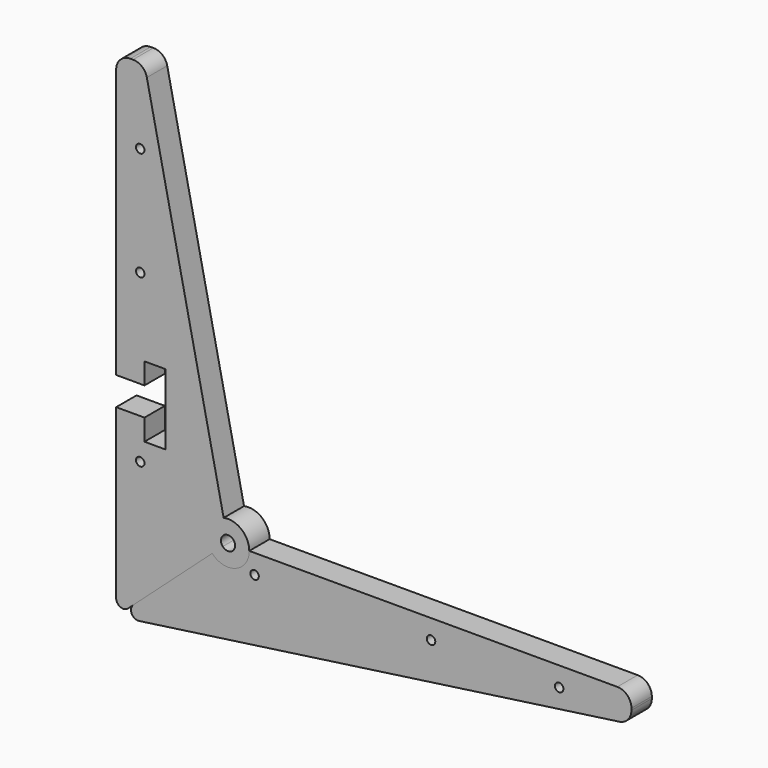
from build123d import *

# Parameters (mm, degrees)
F0_R     = 3
F1_DEPTH = 18
F2_DEPTH = 18
F3_DEPTH = 18
F4_DEPTH = 18
F5_R     = 5
F5_2_R   = 5
F5_3_R   = 5
F5_4_R   = 5
F6_R     = 10
F6_2_R   = 10
F6_3_R   = 10
F6_4_R   = 10


with BuildPart() as f1:
    # F0 (on Front) → F1 (new body)
    with BuildSketch(Plane.XZ):
        with BuildLine():
            Line((-60.7194070949, 66.6586026049), (-60.7194070949, -63.3413973951))
            Line((-60.7194070949, -63.3413973951), (7.1693628817, -2.2140743457))
            ThreePointArc((7.1693628817, -2.2140743457), (4.0525372812, 12.4638287862), (15.2095640051, 22.4975816663))
            Line((15.2095640051, 22.4975816663), (-40.7194070949, 286.6586026049))
            Line((-40.7194070949, 286.6586026049), (-60.7194070949, 286.6586026049))
            Line((-60.7194070949, 286.6586026049), (-60.7194070949, 86.6586026049))
            Line((-60.7194070949, 86.6586026049), (-40.7194070949, 86.6586026049))
            Line((-40.7194070949, 86.6586026049), (-40.7194070949, 101.6586026049))
            Line((-40.7194070949, 101.6586026049), (-25.7194070949, 101.6586026049))
            Line((-25.7194070949, 101.6586026049), (-25.7194070949, 51.6586026049))
            Line((-25.7194070949, 51.6586026049), (-40.7194070949, 51.6586026049))
            Line((-40.7194070949, 51.6586026049), (-40.7194070949, 66.6586026049))
            Line((-40.7194070949, 66.6586026049), (-60.7194070949, 66.6586026049))
        make_face()
        with Locations((-43.7194070949, 38.2209867239)):
            Circle(F0_R, mode=Mode.SUBTRACT)
        with Locations((-43.7194070949, 155.9402495623)):
            Circle(F0_R, mode=Mode.SUBTRACT)
        with Locations((-43.7194070949, 232.910797)):
            Circle(F0_R, mode=Mode.SUBTRACT)
    extrude(amount=F1_DEPTH)

    # F5#2
    f5_2_edges = [f1.edges().sort_by_distance(p)[0] for p in [
        (-60.719407, -9, -63.341397),
    ]]
    fillet(f5_2_edges, radius=F5_2_R)

    # F6#4
    f6_4_edges = [f1.edges().sort_by_distance(p)[0] for p in [
        (-60.719407, -9, 286.658603),
        (-40.719407, -9, 286.658603),
    ]]
    fillet(f6_4_edges, radius=F6_4_R)


with BuildPart() as f2:
    # F0 (on Front) → F2 (new body)
    with BuildSketch(Plane.XZ):
        with BuildLine():
            Line((7.1693628817, -2.2140743457), (-60.7194070949, -63.3413973951))
            Line((-60.7194070949, -63.3413973951), (303.3333769453, -12.1771152504))
            Line((303.3333769453, -12.1771152504), (303.3333769453, 7.8228847496))
            Line((303.3333769453, 7.8228847496), (33.3165352639, 7.8228847496))
            ThreePointArc((33.3165352639, 7.8228847496), (23.6920545071, -6.1808216478), (7.1693628817, -2.2140743457))
        make_face()
        with Locations((37.0541214943, -5.8885407634)):
            Circle(F0_R, mode=Mode.SUBTRACT)
        with Locations((161.7336720228, -5.8885407634)):
            Circle(F0_R, mode=Mode.SUBTRACT)
        with Locations((252.2485852242, -5.8885407634)):
            Circle(F0_R, mode=Mode.SUBTRACT)
        with BuildLine():
            Line((14.6008111365, 4.4772317179), (7.1693628817, -2.2140743457))
            ThreePointArc((7.1693628817, -2.2140743457), (23.6920545071, -6.1808216478), (33.3165352639, 7.8228847496))
            Line((33.3165352639, 7.8228847496), (23.3165352639, 7.8228847496))
            ThreePointArc((23.3165352639, 7.8228847496), (20.1083750116, 3.1549826172), (14.6008111365, 4.4772317179))
        make_face()
        with BuildLine():
            ThreePointArc((15.2095640051, 22.4975816663), (4.0525372812, 12.4638287862), (7.1693628817, -2.2140743457))
            Line((7.1693628817, -2.2140743457), (14.6008111365, 4.4772317179))
            ThreePointArc((14.6008111365, 4.4772317179), (13.5618692697, 9.3698660952), (17.2808781776, 12.7144503885))
            Line((17.2808781776, 12.7144503885), (15.2095640051, 22.4975816663))
        make_face()
        with BuildLine():
            ThreePointArc((33.3165352639, 7.8228847496), (27.7609894863, 19.4763084715), (15.2095640051, 22.4975816663))
            Line((15.2095640051, 22.4975816663), (17.2808781776, 12.7144503885))
            ThreePointArc((17.2808781776, 12.7144503885), (21.4646866713, 11.7073593236), (23.3165352639, 7.8228847496))
            Line((23.3165352639, 7.8228847496), (33.3165352639, 7.8228847496))
        make_face()
    extrude(amount=F2_DEPTH)

    # F5
    f5_edges = [f2.edges().sort_by_distance(p)[0] for p in [
        (-60.719407, -9, -63.341397),
    ]]
    fillet(f5_edges, radius=F5_R)

    # F6#2
    f6_2_edges = [f2.edges().sort_by_distance(p)[0] for p in [
        (303.333377, -9, 7.822885),
        (303.333377, -9, -12.177115),
    ]]
    fillet(f6_2_edges, radius=F6_2_R)


with BuildPart() as f3:
    # F0 (on Front) → F3 (new body)
    with BuildSketch(Plane.XZ):
        with BuildLine():
            Line((-60.7194070949, 66.6586026049), (-60.7194070949, -63.3413973951))
            Line((-60.7194070949, -63.3413973951), (7.1693628817, -2.2140743457))
            ThreePointArc((7.1693628817, -2.2140743457), (4.0525372812, 12.4638287862), (15.2095640051, 22.4975816663))
            Line((15.2095640051, 22.4975816663), (-40.7194070949, 286.6586026049))
            Line((-40.7194070949, 286.6586026049), (-60.7194070949, 286.6586026049))
            Line((-60.7194070949, 286.6586026049), (-60.7194070949, 86.6586026049))
            Line((-60.7194070949, 86.6586026049), (-40.7194070949, 86.6586026049))
            Line((-40.7194070949, 86.6586026049), (-40.7194070949, 101.6586026049))
            Line((-40.7194070949, 101.6586026049), (-25.7194070949, 101.6586026049))
            Line((-25.7194070949, 101.6586026049), (-25.7194070949, 51.6586026049))
            Line((-25.7194070949, 51.6586026049), (-40.7194070949, 51.6586026049))
            Line((-40.7194070949, 51.6586026049), (-40.7194070949, 66.6586026049))
            Line((-40.7194070949, 66.6586026049), (-60.7194070949, 66.6586026049))
        make_face()
        with Locations((-43.7194070949, 38.2209867239)):
            Circle(F0_R, mode=Mode.SUBTRACT)
        with Locations((-43.7194070949, 155.9402495623)):
            Circle(F0_R, mode=Mode.SUBTRACT)
        with Locations((-43.7194070949, 232.910797)):
            Circle(F0_R, mode=Mode.SUBTRACT)
        with BuildLine():
            ThreePointArc((15.2095640051, 22.4975816663), (4.0525372812, 12.4638287862), (7.1693628817, -2.2140743457))
            Line((7.1693628817, -2.2140743457), (14.6008111365, 4.4772317179))
            ThreePointArc((14.6008111365, 4.4772317179), (13.5618692697, 9.3698660952), (17.2808781776, 12.7144503885))
            Line((17.2808781776, 12.7144503885), (15.2095640051, 22.4975816663))
        make_face()
        with BuildLine():
            ThreePointArc((33.3165352639, 7.8228847496), (27.7609894863, 19.4763084715), (15.2095640051, 22.4975816663))
            Line((15.2095640051, 22.4975816663), (17.2808781776, 12.7144503885))
            ThreePointArc((17.2808781776, 12.7144503885), (21.4646866713, 11.7073593236), (23.3165352639, 7.8228847496))
            Line((23.3165352639, 7.8228847496), (33.3165352639, 7.8228847496))
        make_face()
        with BuildLine():
            Line((14.6008111365, 4.4772317179), (7.1693628817, -2.2140743457))
            ThreePointArc((7.1693628817, -2.2140743457), (23.6920545071, -6.1808216478), (33.3165352639, 7.8228847496))
            Line((33.3165352639, 7.8228847496), (23.3165352639, 7.8228847496))
            ThreePointArc((23.3165352639, 7.8228847496), (20.1083750116, 3.1549826172), (14.6008111365, 4.4772317179))
        make_face()
    extrude(amount=F3_DEPTH)

    # F5#3
    f5_3_edges = [f3.edges().sort_by_distance(p)[0] for p in [
        (-60.719407, -9, -63.341397),
    ]]
    fillet(f5_3_edges, radius=F5_3_R)

    # F6#3
    f6_3_edges = [f3.edges().sort_by_distance(p)[0] for p in [
        (-60.719407, -9, 286.658603),
        (-40.719407, -9, 286.658603),
    ]]
    fillet(f6_3_edges, radius=F6_3_R)


with BuildPart() as f4:
    # F0 (on Front) → F4 (new body)
    with BuildSketch(Plane.XZ):
        with BuildLine():
            Line((7.1693628817, -2.2140743457), (-60.7194070949, -63.3413973951))
            Line((-60.7194070949, -63.3413973951), (303.3333769453, -12.1771152504))
            Line((303.3333769453, -12.1771152504), (303.3333769453, 7.8228847496))
            Line((303.3333769453, 7.8228847496), (33.3165352639, 7.8228847496))
            ThreePointArc((33.3165352639, 7.8228847496), (23.6920545071, -6.1808216478), (7.1693628817, -2.2140743457))
        make_face()
        with Locations((37.0541214943, -5.8885407634)):
            Circle(F0_R, mode=Mode.SUBTRACT)
        with Locations((161.7336720228, -5.8885407634)):
            Circle(F0_R, mode=Mode.SUBTRACT)
        with Locations((252.2485852242, -5.8885407634)):
            Circle(F0_R, mode=Mode.SUBTRACT)
    extrude(amount=F4_DEPTH)

    # F5#4
    f5_4_edges = [f4.edges().sort_by_distance(p)[0] for p in [
        (-60.719407, -9, -63.341397),
    ]]
    fillet(f5_4_edges, radius=F5_4_R)

    # F6
    f6_edges = [f4.edges().sort_by_distance(p)[0] for p in [
        (303.333377, -9, 7.822885),
        (303.333377, -9, -12.177115),
    ]]
    fillet(f6_edges, radius=F6_R)


solid = Compound([f1.part, f2.part, f3.part, f4.part])
